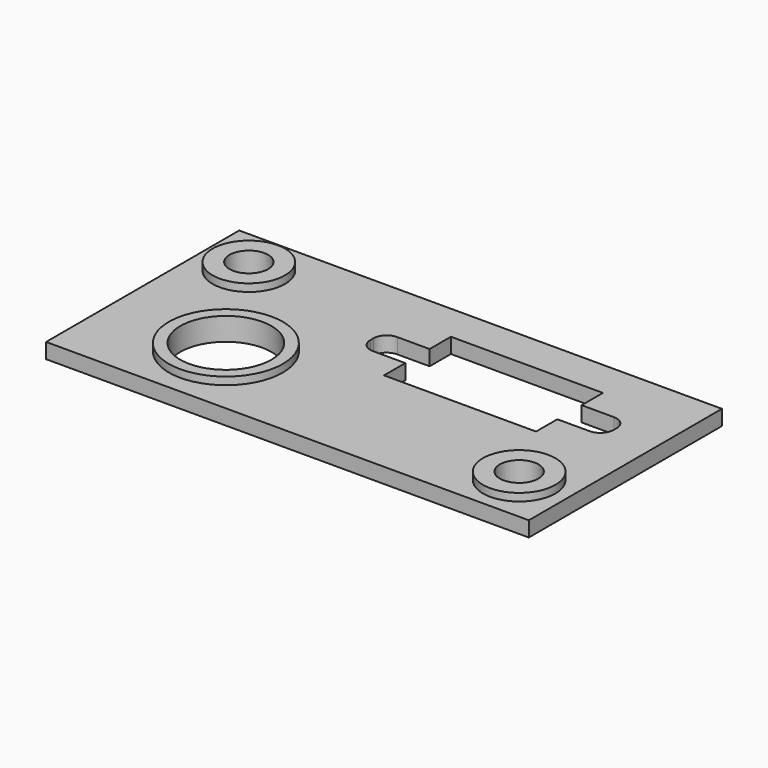
from build123d import *

# Parameters (mm, degrees)
F0_W      = 63.5
F0_H      = 31.75
F1_DEPTH  = 2
F3_R      = 4.7625
F4_DEPTH  = 1
F6_R      = 2.54
F7_DEPTH  = 25.4
F8_W      = 20
F8_H      = 11
F9_DEPTH  = 25
F11_R     = 7.5
F12_DEPTH = 1
F13_R     = 6
F14_DEPTH = 25
F5_R      = 4.7625
F15_DEPTH = 1
F16_R     = 2.54
F17_DEPTH = 25.4
F19_DEPTH = 25


with BuildPart() as f1:
    # F0 (on Top) → F1 (new body)
    with BuildSketch(Plane.XY):
        Rectangle(F0_W, F0_H)
    extrude(amount=F1_DEPTH)

    # F3 (on face) → F4 (join)
    with BuildSketch(Plane.XY.offset(2)):
        with Locations((-25.4, 9.525)):
            Circle(F3_R)
    extrude(amount=F4_DEPTH)

    # F6 (on face) → F7 (cut)
    with BuildSketch(Plane.XY.offset(3)):
        with Locations((-25.4, 9.525)):
            Circle(F6_R)
    extrude(amount=-F7_DEPTH, mode=Mode.SUBTRACT)

    # F8 (on face) → F9 (cut)
    with BuildSketch(Plane.XY.offset(2)):
        with Locations((10, 5.5)):
            Rectangle(F8_W, F8_H)
    extrude(amount=-F9_DEPTH, mode=Mode.SUBTRACT)

    # F11 (on face) → F12 (join)
    with BuildSketch(Plane.XY.offset(2)):
        with Locations((-16, -6)):
            Circle(F11_R)
    extrude(amount=F12_DEPTH)

    # F13 (on face) → F14 (cut)
    with BuildSketch(Plane.XY.offset(3)):
        with Locations((-16, -6)):
            Circle(F13_R)
    extrude(amount=-F14_DEPTH, mode=Mode.SUBTRACT)

    # F5 (on face) → F15 (join)
    with BuildSketch(Plane.XY.offset(2)):
        with Locations((25.4, -9.525)):
            Circle(F5_R)
    extrude(amount=F15_DEPTH)

    # F16 (on face) → F17 (cut)
    with BuildSketch(Plane.XY.offset(3)):
        with Locations((25.4, -9.525)):
            Circle(F16_R)
    extrude(amount=-F17_DEPTH, mode=Mode.SUBTRACT)

    # F18 (on face) → F19 (cut)
    with BuildSketch(Plane.XY.offset(2)):
        with BuildLine():
            Line((6, 3.5), (6, 7.5))
            Line((6, 7.5), (-4.25, 7.5))
            ThreePointArc((-4.25, 7.5), (-5.487437, 6.987437), (-6, 5.75))
            Line((-6, 5.75), (-6, 5.25))
            ThreePointArc((-6, 5.25), (-5.487437, 4.012563), (-4.25, 3.5))
            Line((-4.25, 3.5), (6, 3.5))
        make_face()
        with BuildLine():
            Line((14, 3.5), (24.25, 3.5))
            ThreePointArc((24.25, 3.5), (25.487437, 4.012563), (26, 5.25))
            Line((26, 5.25), (26, 5.75))
            ThreePointArc((26, 5.75), (25.487437, 6.987437), (24.25, 7.5))
            Line((24.25, 7.5), (14, 7.5))
            Line((14, 7.5), (14, 3.5))
        make_face()
    extrude(amount=-F19_DEPTH, mode=Mode.SUBTRACT)


solid = f1.part
